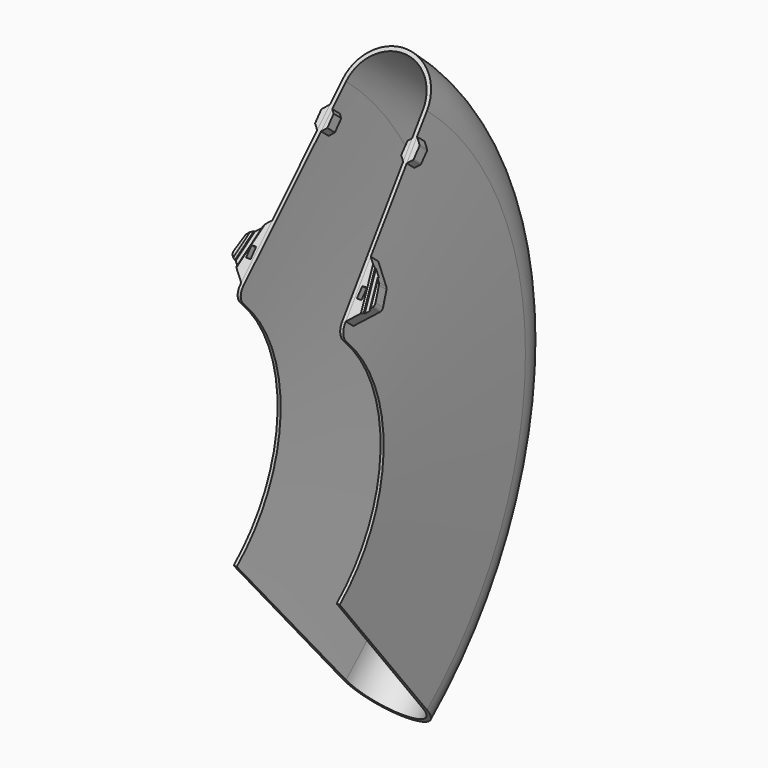
from build123d import *

# Parameters (mm, degrees)
REVOLUTION_ANGLE = 100
FILLET_R         = 8
PAD_DEPTH        = 8
POCKET_DEPTH     = 2
CHAMFER_SIZE     = 1
SKETCH005_W      = 3
SKETCH005_H      = 7
POCKET001_DEPTH  = 81.8615815525
POCKET002_DEPTH  = 78.501
FILLET001_R      = 3
FILLET002_R      = 1


with BuildPart() as part:
    # Sketch → Revolution (revolve, symmetric)
    with BuildSketch(Plane.XY) as revolution_sk:
        with BuildLine():
            ThreePointArc((27.5, 224.008535095), (0, 250), (-27.5, 224.008535095))
            Line((-34.5, 100), (-27.5, 224.008535095))
            Line((-34.5, 100), (-32.5, 100))
            Line((-32.5, 100), (-25.0114058168, 223.77))
            ThreePointArc((25.0114058168, 223.77), (0, 247.3138512729), (-25.0114058168, 223.77))
            Line((25.0114058168, 223.77), (32.5, 100))
            Line((32.5, 100), (34.5, 100))
            Line((34.5, 100), (27.5, 224.008535095))
        make_face()
    revolve(axis=Axis((0, 0, 0), (1, 0, 0)), revolution_arc=REVOLUTION_ANGLE / 2)
    revolve(revolution_sk.sketch, axis=Axis((0, 0, 0), (-1, 0, 0)), revolution_arc=REVOLUTION_ANGLE / 2)

    # Fillet
    fillet_edges = [part.edges().sort_by_distance(p)[0] for p in [
        (33.5, 64.278761, 76.604444),
        (-33.5, 64.278761, 76.604444),
    ]]
    fillet(fillet_edges, radius=FILLET_R)

    # Sketch002 (on Face5 of Fillet) → Pad (new body)
    with BuildSketch(Plane(origin=(0, 0, 0), x_dir=(1, 0, 0), z_dir=(0, -0.7660444431, 0.6427876097))):
        Polygon((-43.3941714588, 132.6975053664), (-46.5, 121.1063954509), (-33.2488189206, 107.8552143715), (-31, 145.091676825), align=None)
        Polygon((43.3941714588, 132.6975053664), (46.5, 121.1063954509), (33.2488189206, 107.8552143715), (31, 145.091676825), align=None)
        Polygon((28, 194.1063954509), (32, 198.1063954509), (32, 206.1063954509), (28, 210.1063954509), (24, 206.1063954509), (24, 198.1063954509), align=None)
        Polygon((-28, 194.1063954509), (-24, 198.1063954509), (-24, 206.1063954509), (-28, 210.1063954509), (-32, 206.1063954509), (-32, 198.1063954509), align=None)
    extrude(amount=-PAD_DEPTH)

    # Sketch003 (on Face47 of Pad) → Pocket (cut)
    with BuildSketch(Plane(origin=(0, 0, 0), x_dir=(1, 0, 0), z_dir=(0, -0.7660444431, 0.6427876097))):
        Polygon((35, 146.8697948557), (45, 97.88), (47.9393876913, 98.48), (37.9393876913, 147.4697948557), align=None)
        Polygon((-47.9393876913, 98.4800000001), (-45, 97.88), (-35, 146.8697948557), (-37.9393876913, 147.4697948558), align=None)
    extrude(amount=-POCKET_DEPTH, mode=Mode.SUBTRACT)

    # Chamfer
    chamfer_edges = [part.edges().sort_by_distance(p)[0] for p in [
        (42.094426, 81.707526, 97.375238),
        (38.89944, 82.126736, 97.874832),
        (-38.89944, 82.126736, 97.874832),
        (-42.094426, 81.707526, 97.375238),
    ]]
    chamfer(chamfer_edges, length=CHAMFER_SIZE)

    # Sketch005 (on Face6 of Chamfer) → Pocket001 (cut, through all)
    with BuildSketch(Plane(origin=(0, 6.128355545, -5.1423008775), x_dir=(-1, 0, 0), z_dir=(0, 0.7660444431, -0.6427876097))):
        with Locations((-36.0477122259, 125.0785244639)):
            Rectangle(SKETCH005_W, SKETCH005_H)
        with Locations((36.0477122259, 125.0785244639)):
            Rectangle(SKETCH005_W, SKETCH005_H)
    extrude(amount=-POCKET001_DEPTH, mode=Mode.SUBTRACT)

    # Sketch006 (on Face54 of Pocket001) → Pocket002 (cut, through all)
    with BuildSketch(Plane(origin=(-32, 0, 0), x_dir=(0, -1, 0), z_dir=(-1, 0, 0))):
        Polygon((-140.4082247347, 149.7281591854), (-136.6575524936, 145.0449489894), (-134.3159473956, 146.92028511), (-138.0666196367, 151.6034953059), align=None)
    extrude(amount=-POCKET002_DEPTH, mode=Mode.SUBTRACT)

    # Fillet001
    fillet001_edges = [part.edges().sort_by_distance(p)[0] for p in [
        (46.5, 80.909868, 90.201731),
        (43.394171, 88.36049, 99.081036),
        (-43.394171, 88.36049, 99.081036),
        (-46.5, 80.909868, 90.201731),
    ]]
    fillet(fillet001_edges, radius=FILLET001_R)

    # Fillet002
    fillet002_edges = [part.edges().sort_by_distance(p)[0] for p in [
        (32, 135.546815, 155.315508),
        (32, 130.404514, 149.187153),
        (-32, 130.404514, 149.187153),
        (-32, 135.546815, 155.315508),
    ]]
    fillet(fillet002_edges, radius=FILLET002_R)


solid = part.part
